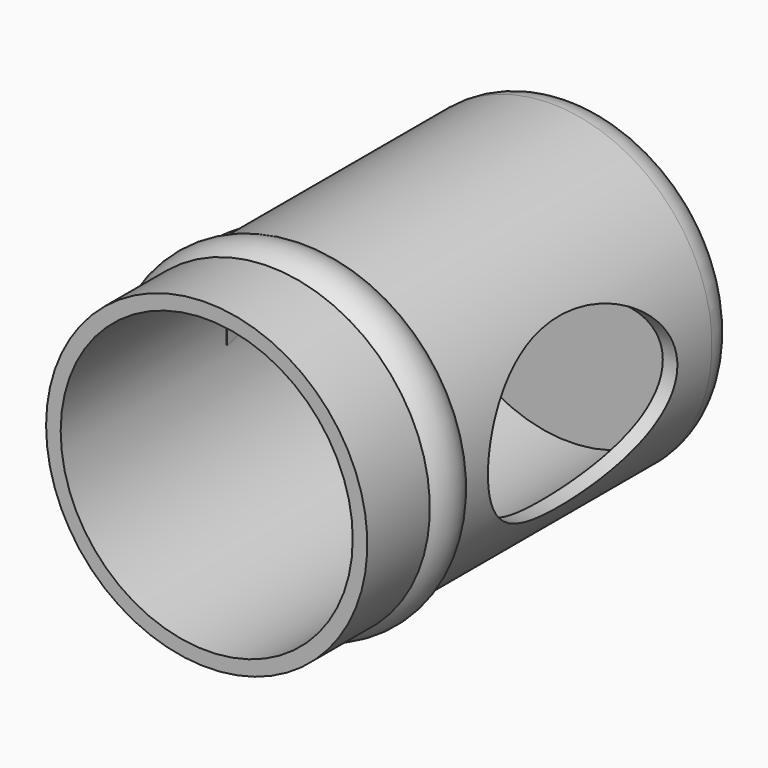
from build123d import *

# Parameters (mm, degrees)
F3_DEPTH = 3
F4_R     = 5
F5_R     = 2
F7_DEPTH = 30


with BuildPart() as f1:
    # F0 (on Top) → F1 (revolve)
    with BuildSketch(Plane.XY):
        Polygon((-20, 43.255373), (0, 43.255373), (0, 45.255373), (-22, 45.255373), (-22, -1.848867), (-22, -8.040607), (-22, -18.744627), (-20, -18.744627), align=None)
        with BuildLine():
            Line((-22, -8.040607), (-22, -1.848867))
            ThreePointArc((-22, -1.848867), (-23.171118, -4.944737), (-22, -8.040607))
        make_face()
    revolve(axis=Axis((0, -2.109665, 0), (0, 1, 0)))

    # F2 (on Top) → F3 (join, symmetric)
    with BuildSketch(Plane.XY):
        with BuildLine():
            ThreePointArc((-20, 12.639232), (-29.646143, 22.148181), (-20, 31.65713))
            Line((-20, 31.65713), (-19.957029, 34.656822))
            ThreePointArc((-19.957029, 34.656822), (-32.646143, 22.148181), (-19.957029, 9.63954))
            Line((-19.957029, 9.63954), (-20, 12.639232))
        make_face()
    extrude(amount=F3_DEPTH, both=True)

    # F4
    f4_edges = [f1.edges().sort_by_distance(p)[0] for p in [
        (22, 45.255373, 0),
    ]]
    fillet(f4_edges, radius=F4_R)

    # F5
    f5_edges = [f1.edges().sort_by_distance(p)[0] for p in [
        (-32.646143, 22.148181, 3),
        (-32.646143, 22.148181, -3),
    ]]
    fillet(f5_edges, radius=F5_R)

    # F6 (on Right) → F7 (cut)
    with BuildSketch(Plane.YZ):
        with BuildLine():
            add(Edge.make_bspline(
                [(34.336799, 0), (34.336799, 19.918584), (10.014392, 9.959292), (-14.308014, 0), (10.014392, -9.959292), (34.336799, -19.918584), (34.336799, 0)],
                knots=[0, 0, 0, 2.094395, 2.094395, 4.18879, 4.18879, 6.283185, 6.283185, 6.283185], degree=2, weights=[1, 0.5, 1, 0.5, 1, 0.5, 1]))
        make_face()
    extrude(amount=F7_DEPTH, mode=Mode.SUBTRACT)


solid = f1.part
